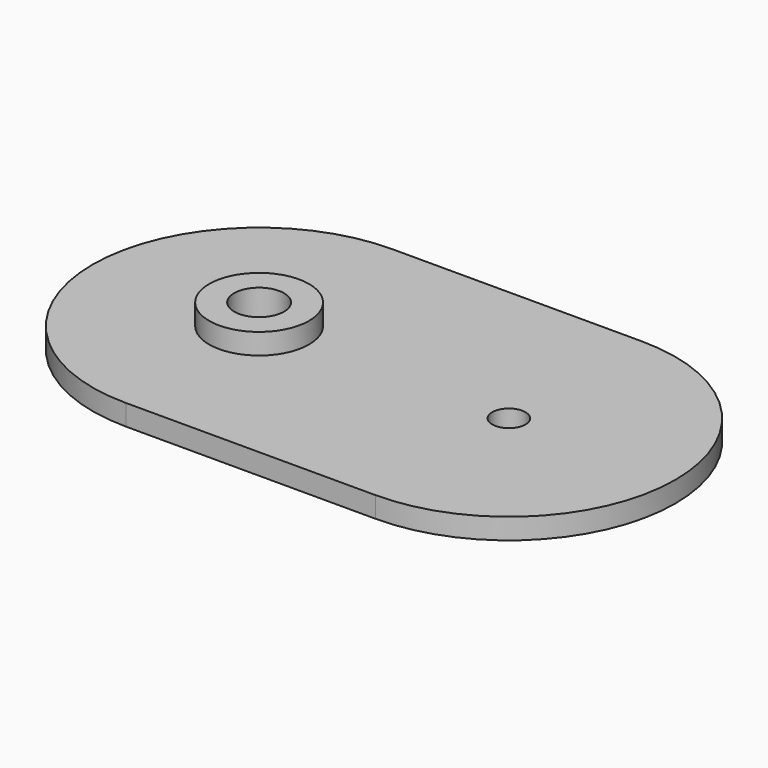
from build123d import *

# Parameters (mm, degrees)
F0_R     = 6
F0_R_2   = 2
F1_DEPTH = 2.5
F0_R_3   = 3
F2_DEPTH = 5


with BuildPart() as f1:
    # F0 (on Top) → F1 (new body)
    with BuildSketch(Plane.XY):
        with BuildLine():
            Line((15, 20), (-15, 20))
            ThreePointArc((-15, 20), (-35, 0), (-15, -20))
            Line((-15, -20), (15, -20))
            ThreePointArc((15, -20), (35, 0), (15, 20))
        make_face()
        with Locations((-15, 0)):
            Circle(F0_R, mode=Mode.SUBTRACT)
        with Locations((15, 0)):
            Circle(F0_R_2, mode=Mode.SUBTRACT)
    extrude(amount=F1_DEPTH)

    # F0 (on Top) → F2 (join)
    with BuildSketch(Plane.XY):
        with Locations((-15, 0)):
            Circle(F0_R)
        with Locations((-15, 0)):
            Circle(F0_R_3, mode=Mode.SUBTRACT)
    extrude(amount=F2_DEPTH)


solid = f1.part
